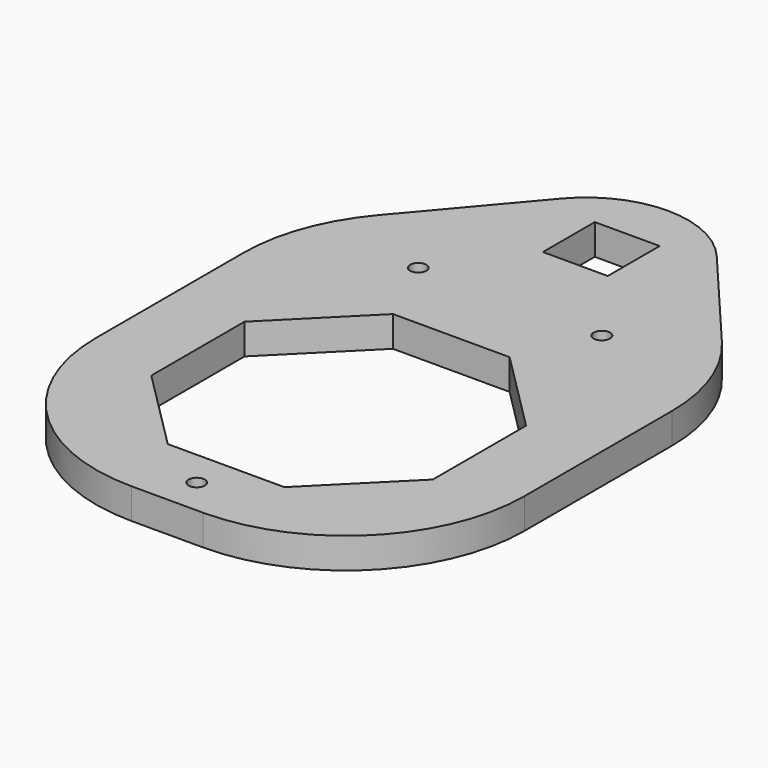
from build123d import *

# Parameters (mm, degrees)
F0_R     = 1.6
F0_W     = 12.72
F0_H     = 12.72
F1_DEPTH = 6
F2_R     = 35
F3_R     = 20


with BuildPart() as f1:
    # F0 (on Top) → F1 (new body)
    with BuildSketch(Plane.XY):
        Polygon((27.6, 119.208467), (-14.4, 69.6), (-14.4, -14.4), (69.6, -14.4), (69.6, 69.6), align=None)
        with Locations((27.6, -7.2)):
            Circle(F0_R, mode=Mode.SUBTRACT)
        Polygon((27.6, 0), (16.167706, 0), (8.083853, 8.083853), (0, 16.167706), (0, 27.6), (0, 39.032294), (8.083853, 47.116147), (16.167706, 55.2), (27.6, 55.2), (39.032294, 55.2), (47.116147, 47.116147), (55.2, 39.032294), (55.2, 27.6), (55.2, 16.167706), (47.116147, 8.083853), (39.032294, 0), align=None, mode=Mode.SUBTRACT)
        with Locations((9.6, 69.6)):
            Circle(F0_R, mode=Mode.SUBTRACT)
        with Locations((45.6, 69.6)):
            Circle(F0_R, mode=Mode.SUBTRACT)
        with Locations((27.6, 91.96)):
            Rectangle(F0_W, F0_H, mode=Mode.SUBTRACT)
    extrude(amount=F1_DEPTH)

    # F2
    f2_edges = [f1.edges().sort_by_distance(p)[0] for p in [
        (69.6, -14.4, 3),
        (-14.4, -14.4, 3),
        (-14.4, 69.6, 3),
        (69.6, 69.6, 3),
    ]]
    fillet(f2_edges, radius=F2_R)

    # F3
    f3_edges = [f1.edges().sort_by_distance(p)[0] for p in [
        (27.6, 119.208467, 3),
    ]]
    fillet(f3_edges, radius=F3_R)


solid = f1.part
